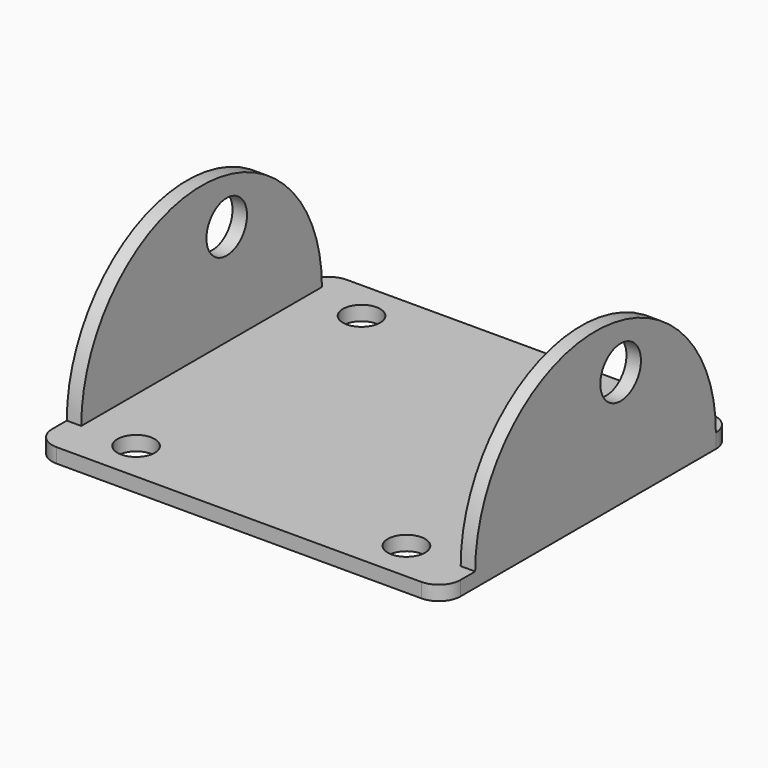
from build123d import *

# Parameters (mm, degrees)
F0_R     = 2.575
F1_DEPTH = 2
F2_R     = 3.5
F3_DEPTH = 2
F4_R     = 3.5
F5_DEPTH = 2


with BuildPart() as f1:
    # F0 (on Top) → F1 (new body)
    with BuildSketch(Plane.XY):
        with BuildLine():
            Line((25.175, 25.015), (18.107727, 25.015))
            Line((18.107727, 25.015), (0, 25.015))
            Line((0, 25.015), (-18.107727, 25.015))
            Line((-18.107727, 25.015), (-25.175, 25.015))
            ThreePointArc((-25.175, 25.015), (-27.29632, 24.13632), (-28.175, 22.015))
            Line((-28.175, 22.015), (-28.175, 18.29321))
            Line((-28.175, 18.29321), (-28.175, -18.29321))
            Line((-28.175, -18.29321), (-28.175, -22.015))
            ThreePointArc((-28.175, -22.015), (-27.29632, -24.13632), (-25.175, -25.015))
            Line((-25.175, -25.015), (-18.107727, -25.015))
            Line((-18.107727, -25.015), (0, -25.015))
            Line((0, -25.015), (18.107727, -25.015))
            Line((18.107727, -25.015), (25.175, -25.015))
            ThreePointArc((25.175, -25.015), (27.29632, -24.13632), (28.175, -22.015))
            Line((28.175, -22.015), (28.175, -18.29321))
            Line((28.175, -18.29321), (28.175, 18.29321))
            Line((28.175, 18.29321), (28.175, 22.015))
            ThreePointArc((28.175, 22.015), (27.29632, 24.13632), (25.175, 25.015))
        make_face()
        with Locations((-18.65, -19.44)):
            Circle(F0_R, mode=Mode.SUBTRACT)
        with Locations((18.65, -19.44)):
            Circle(F0_R, mode=Mode.SUBTRACT)
        with Locations((-18.65, 19.44)):
            Circle(F0_R, mode=Mode.SUBTRACT)
        with Locations((18.65, 19.44)):
            Circle(F0_R, mode=Mode.SUBTRACT)
    extrude(amount=F1_DEPTH)

    # F2 (on face) → F3 (join)
    with BuildSketch(Plane(origin=(-28.175, 0, 0), x_dir=(0, -1, 0), z_dir=(-1, 0, 0))):
        with BuildLine():
            Line((-22.015, 2), (19.493148, 2))
            ThreePointArc((19.493148, 2), (-1.260926, 22.754074), (-22.015, 2))
        make_face()
        with Locations((-5.59321, 16)):
            Circle(F2_R, mode=Mode.SUBTRACT)
        with BuildLine():
            Line((-22.015, 2), (19.493148, 2))
            ThreePointArc((19.493148, 2), (-1.260926, 22.754074), (-22.015, 2))
        make_face()
        with Locations((-5.59321, 16)):
            Circle(F2_R, mode=Mode.SUBTRACT)
    extrude(amount=-F3_DEPTH)

    # F4 (on face) → F5 (join)
    with BuildSketch(Plane.YZ.offset(28.175)):
        with BuildLine():
            Line((-19.493, 2), (22.015, 2))
            ThreePointArc((22.015, 2), (1.261, 22.754), (-19.493, 2))
        make_face()
        with Locations((5.593, 16)):
            Circle(F4_R, mode=Mode.SUBTRACT)
    extrude(amount=-F5_DEPTH)


solid = f1.part
